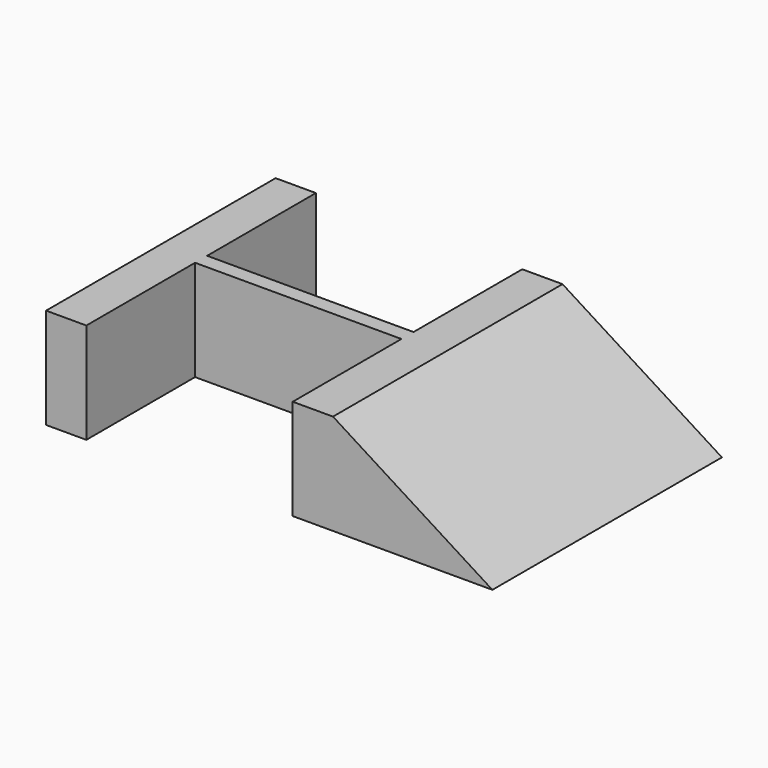
from build123d import *

# Parameters (mm, degrees)
F1_DEPTH = 20
F3_DEPTH = 57


with BuildPart() as f1:
    # F0 (on Top) → F1 (new body)
    with BuildSketch(Plane.XY):
        Polygon((-29.166666, 30), (-37.166666, 30), (-37.166666, -27), (-29.166666, -27), (-29.166666, 0), (11.833334, 0), (11.833334, -27), (19.833334, -27), (19.833334, 30), (11.833334, 30), (11.833334, 3), (-29.166666, 3), align=None)
    extrude(amount=F1_DEPTH)

    # F2 (on face) → F3 (join)
    with BuildSketch(Plane.XZ.offset(27)):
        Polygon((19.833334, 20), (19.833334, 0), (51.504664, 0), align=None)
    extrude(amount=-F3_DEPTH)


solid = f1.part
